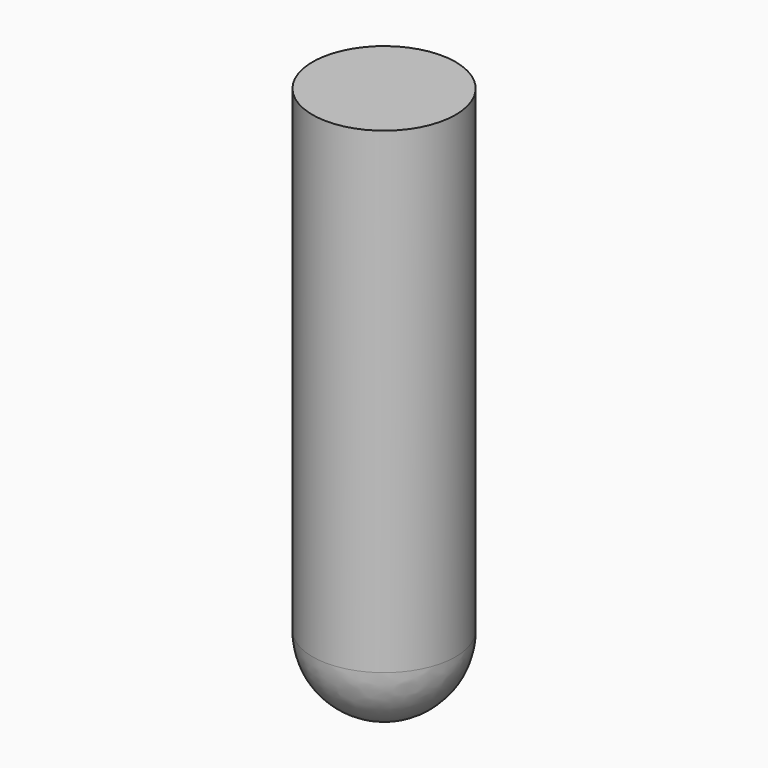
from build123d import *

# Parameters (mm, degrees)
F0_R     = 3
F1_DEPTH = 20


with BuildPart() as f1:
    # F0 (on Top) → F1 (new body)
    with BuildSketch(Plane.XY):
        Circle(F0_R)
    extrude(amount=F1_DEPTH)

    # F2 (on Right) → F3 (revolve)
    with BuildSketch(Plane.YZ):
        with BuildLine():
            Line((0, 0), (-3, 0))
            ThreePointArc((-3, 0), (-2.12132, -2.12132), (0, -3))
            Line((0, -3), (0, 0))
        make_face()
    revolve(axis=Axis((0, 0, -2.743864), (0, 0, -1)))


solid = f1.part
